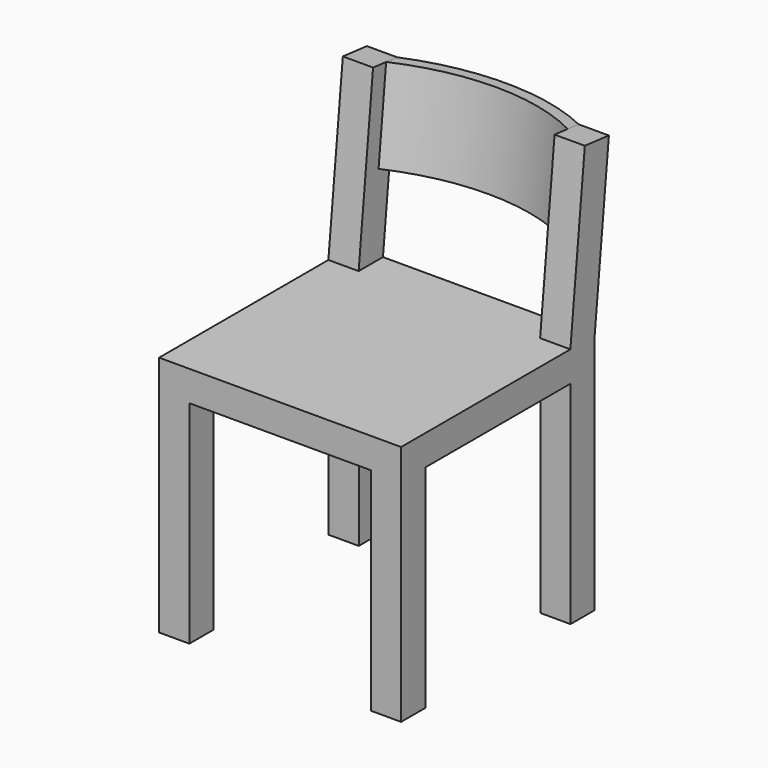
from build123d import *

# Parameters (mm, degrees)
F0_W       = 400
F0_H       = 400
F1_DEPTH   = 400
F2_W       = 300
F2_H       = 350
F3_DEPTH   = 400.001
F4_W       = 300
F4_H       = 350
F5_DEPTH   = 400.001
F9_W       = 400
F9_H       = 280.3927361965
F10_DEPTH  = 50
F11_W      = 300
F11_H      = 280.3927361965
F12_DEPTH  = 120.9608492449
F15_DEPTH  = 150
F16_DEPTH  = 5.2552117633
F12_FACE_W = 50
F12_FACE_H = 50


with BuildPart() as f1:
    # F0 (on Top) → F1 (new body)
    with BuildSketch(Plane.XY):
        Rectangle(F0_W, F0_H)
    extrude(amount=F1_DEPTH)

    # F2 (on face) → F3 (cut, through all)
    with BuildSketch(Plane.XZ.offset(200)):
        with Locations((0, 175)):
            Rectangle(F2_W, F2_H)
    extrude(amount=-F3_DEPTH, mode=Mode.SUBTRACT)

    # F4 (on face) → F5 (cut, through all)
    with BuildSketch(Plane(origin=(-200, 0, 0), x_dir=(0, -1, 0), z_dir=(-1, 0, 0))):
        with Locations((0, 175)):
            Rectangle(F4_W, F4_H)
    extrude(amount=-F5_DEPTH, mode=Mode.SUBTRACT)



with BuildPart() as f10:
    # F9 (on line) → F10 (new body)
    with BuildSketch(Plane(origin=(0, 156.2324219098, -16.4206892285), x_dir=(1, 0, 0), z_dir=(0, -0.9945218954, 0.1045284633))):
        with Locations((0, 558.9108188991)):
            Rectangle(F9_W, F9_H)
    extrude(amount=F10_DEPTH)

    # F11 (on face) → F12 (cut, through all)
    with BuildSketch(Plane(origin=(0, 106.5063271414, -11.1942660652), x_dir=(1, 0, 0), z_dir=(0, -0.9945218954, 0.1045284633))):
        with Locations((0, 558.9108188991)):
            Rectangle(F11_W, F11_H)
    extrude(amount=-F12_DEPTH, mode=Mode.SUBTRACT)


with BuildPart() as f15:
    # F14 (on offset) → F15 (new body)
    with BuildSketch(Plane(origin=(0, 73.0765999162, 695.2774046782), x_dir=(1, 0, 0), z_dir=(0, 0.1045284633, 0.9945218954))):
        with BuildLine():
            Line((150, 134.2451988675), (150, 157.0929937666))
            ThreePointArc((150, 157.0929937666), (0, 194.3659435427), (-150, 157.0929937666))
            Line((-150, 157.0929937666), (-150, 134.2451988675))
            ThreePointArc((-150, 134.2451988675), (0, 174.3659435427), (150, 134.2451988675))
        make_face()
    extrude(amount=-F15_DEPTH)


with BuildPart() as f1_1:
    add(f1.part)
    # F16 (add, through all): a face of the model
    f16_faces = [f10.part.faces().sort_by_distance(p)[0] for p in [
        (175, 175.1369526158, 402.6132115817),
    ]]

    add(f10.part)  # F16 merges F10
    extrude(f16_faces, amount=F16_DEPTH)

    # F12_face (on face) → F17 (join, up to the next surface of F1)
    with BuildSketch(Plane(origin=(175, 175.1369526158, 402.6132115817), x_dir=(1, 0, 0), z_dir=(0, -0.1045284633, -0.9945218954))):
        with Locations((-350, 0)):
            Rectangle(F12_FACE_W, F12_FACE_H)
    extrude(until=Until.NEXT)


solid = Compound([f15.part, f1_1.part])
